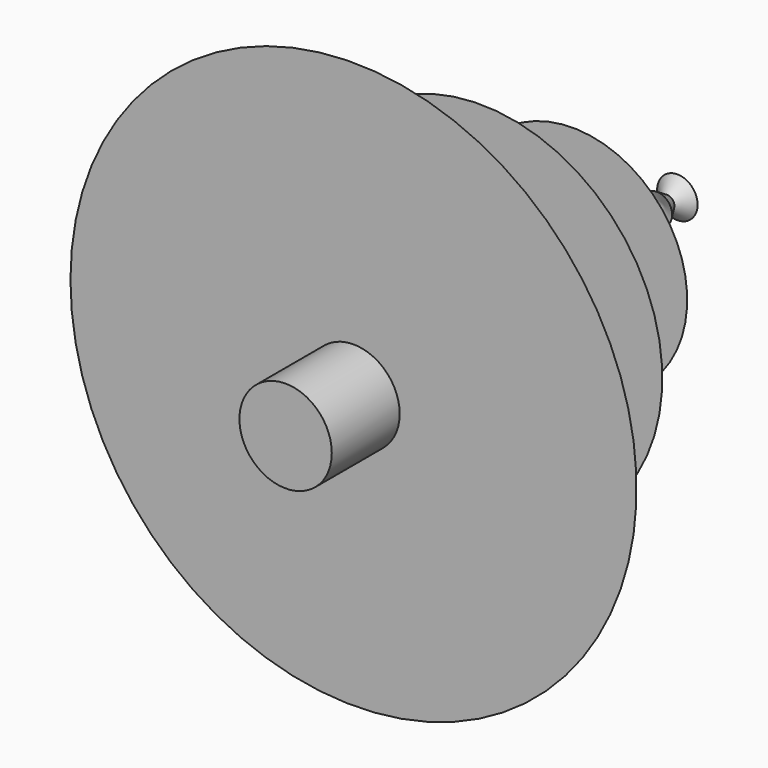
from build123d import *

# Parameters (mm, degrees)
F2_R     = 2.625405
F3_DEPTH = 4.826


with BuildPart() as f1:
    # F0 (on Top) → F1 (revolve)
    with BuildSketch(Plane.XY):
        Polygon((0, 16.141157), (0, 37.837241), (-6.503277, 31.728104), (-3.350172, 31.728104), (-10.351505, 25.151096), (-6.503277, 25.151096), (-16.094504, 16.141157), align=None)
    revolve(axis=Axis((0, 26.989199, 0), (0, -1, 0)))

    # F2 (on face) → F3 (join)
    with BuildSketch(Plane.XZ.offset(-16.141157)):
        with Locations((0, -0.630745)):
            Circle(F2_R)
    extrude(amount=F3_DEPTH)


with BuildPart() as f5:
    # F4 (on Top) → F5 (revolve)
    with BuildSketch(Plane.XY):
        Polygon((0, 38.04319), (0, 39.959233), (-0.419072, 39.157979), (-1.150653, 39.157979), (-0.419072, 38.426399), (-0.871955, 37.694816), align=None)
    revolve(axis=Axis((0, 39.001212, 0), (0, -1, 0)))


solid = Compound([f1.part, f5.part])
